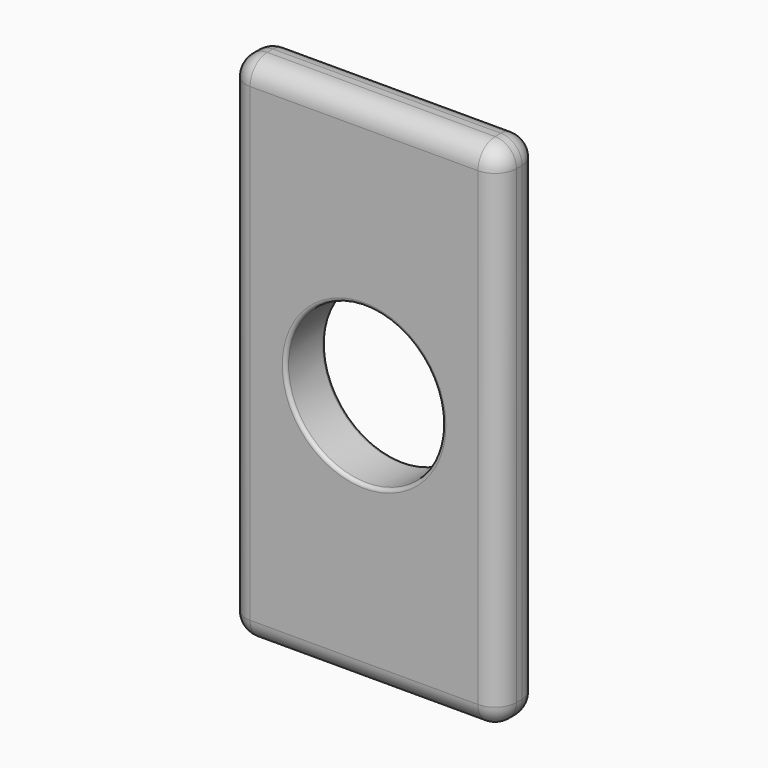
from build123d import *

# Parameters (mm, degrees)
F0_R     = 11
F1_DEPTH = 7
F2_R     = 3
F3_R     = 0.5


with BuildPart() as f1:
    # F0 (on Front) → F1 (new body)
    with BuildSketch(Plane.XZ):
        Polygon((19, 55.315645), (0, 55.315645), (-19, 55.315645), (-19, -16.684355), (0, -16.684355), (19, -16.684355), align=None)
        with Locations((0, 19.315645)):
            Circle(F0_R, mode=Mode.SUBTRACT)
    extrude(amount=F1_DEPTH)

    # F2
    f2_edges = [f1.edges().sort_by_distance(p)[0] for p in [
        (0, -7, 55.315645),
        (0, 0, 55.315645),
        (19, 0, 19.315645),
        (-19, -7, 19.315645),
        (19, -7, 19.315645),
        (0, -7, -16.684355),
        (0, 0, -16.684355),
        (19, -3.5, -16.684355),
        (-19, -3.5, -16.684355),
        (-19, 0, 19.315645),
        (-19, -3.5, 55.315645),
        (19, -3.5, 55.315645),
    ]]
    fillet(f2_edges, radius=F2_R)

    # F3
    f3_edges = [f1.edges().sort_by_distance(p)[0] for p in [
        (-11, -7, 19.315645),
        (-11, 0, 19.315645),
    ]]
    fillet(f3_edges, radius=F3_R)


solid = f1.part
